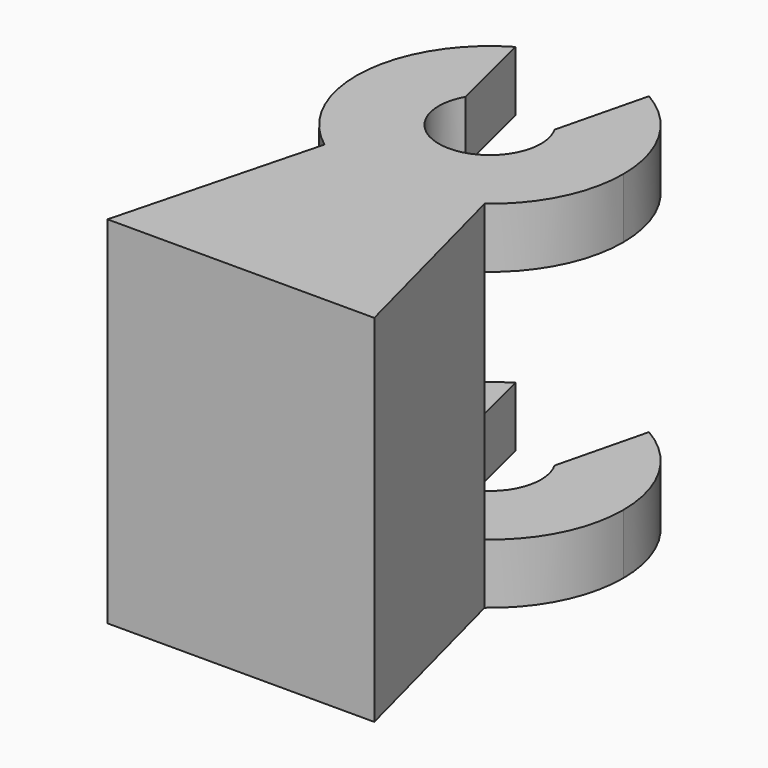
from build123d import *

# Parameters (mm, degrees)
F1_DEPTH = 20
F2_DEPTH = 16.625
F3_DEPTH = 3.375


with BuildPart() as f1:
    # F0 (on Top) → F1 (new body)
    with BuildSketch(Plane.XY):
        with BuildLine():
            ThreePointArc((-11.25185, 21.143954), (-13.995725, 18.398907), (-15, 14.649832))
            ThreePointArc((-15, 14.649832), (-14.208204, 11.29573), (-12, 8.649832))
            Line((-12, 8.649832), (-3, 8.649832))
            ThreePointArc((-3, 8.649832), (-0.791796, 11.29573), (0, 14.649832))
            ThreePointArc((0, 14.649832), (-1.004275, 18.398907), (-3.74815, 21.143954))
            Line((-3.74815, 21.143954), (-5, 16.069559))
            ThreePointArc((-5, 16.069559), (-4.720331, 15.384041), (-4.625, 14.649832))
            ThreePointArc((-4.625, 14.649832), (-8.234209, 11.870163), (-10, 16.069559))
            Line((-10, 16.069559), (-11.25185, 21.143954))
        make_face()
        with BuildLine():
            Line((-12, 8.649832), (-15, -2.850168))
            Line((-15, -2.850168), (0, -2.850168))
            Line((0, -2.850168), (-3, 8.649832))
            ThreePointArc((-3, 8.649832), (-7.5, 7.149832), (-12, 8.649832))
        make_face()
        with BuildLine():
            Line((-3, 8.649832), (-12, 8.649832))
            ThreePointArc((-12, 8.649832), (-7.5, 7.149832), (-3, 8.649832))
        make_face()
    extrude(amount=F1_DEPTH)

    # F0 (on Top) → F2 (cut)
    with BuildSketch(Plane.XY):
        with BuildLine():
            ThreePointArc((-11.25185, 21.143954), (-13.995725, 18.398907), (-15, 14.649832))
            ThreePointArc((-15, 14.649832), (-14.208204, 11.29573), (-12, 8.649832))
            Line((-12, 8.649832), (-3, 8.649832))
            ThreePointArc((-3, 8.649832), (-0.791796, 11.29573), (0, 14.649832))
            ThreePointArc((0, 14.649832), (-1.004275, 18.398907), (-3.74815, 21.143954))
            Line((-3.74815, 21.143954), (-5, 16.069559))
            ThreePointArc((-5, 16.069559), (-4.720331, 15.384041), (-4.625, 14.649832))
            ThreePointArc((-4.625, 14.649832), (-8.234209, 11.870163), (-10, 16.069559))
            Line((-10, 16.069559), (-11.25185, 21.143954))
        make_face()
    extrude(amount=F2_DEPTH, mode=Mode.SUBTRACT)

    # F0 (on Top) → F3 (join)
    with BuildSketch(Plane.XY):
        with BuildLine():
            ThreePointArc((-11.25185, 21.143954), (-13.995725, 18.398907), (-15, 14.649832))
            ThreePointArc((-15, 14.649832), (-14.208204, 11.29573), (-12, 8.649832))
            Line((-12, 8.649832), (-3, 8.649832))
            ThreePointArc((-3, 8.649832), (-0.791796, 11.29573), (0, 14.649832))
            ThreePointArc((0, 14.649832), (-1.004275, 18.398907), (-3.74815, 21.143954))
            Line((-3.74815, 21.143954), (-5, 16.069559))
            ThreePointArc((-5, 16.069559), (-4.720331, 15.384041), (-4.625, 14.649832))
            ThreePointArc((-4.625, 14.649832), (-8.234209, 11.870163), (-10, 16.069559))
            Line((-10, 16.069559), (-11.25185, 21.143954))
        make_face()
    extrude(amount=F3_DEPTH)


solid = f1.part
